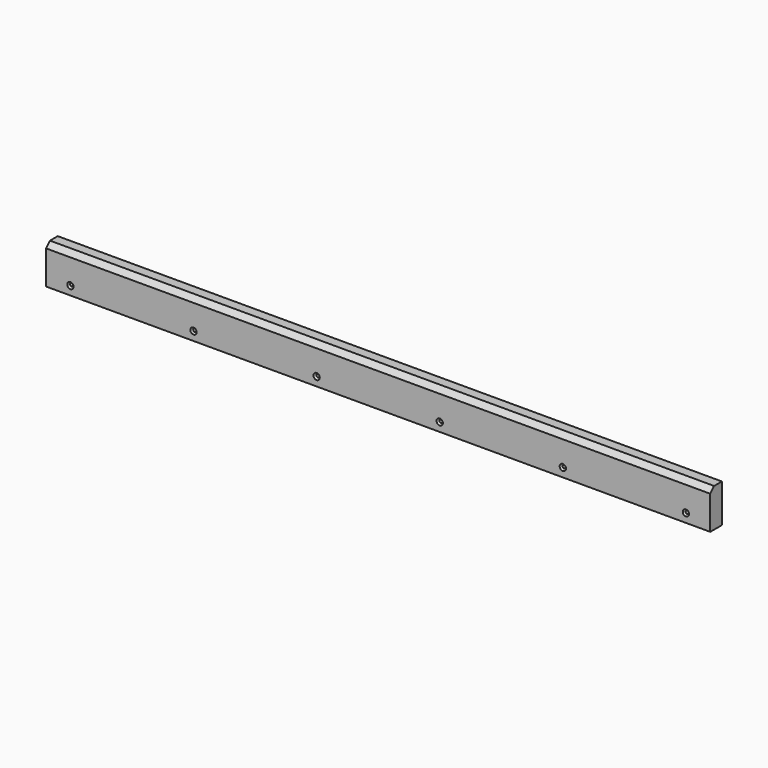
from build123d import *

# Parameters (mm, degrees)
F0_W           = 136.5
F0_H           = 7.9
F1_DEPTH       = 3
F2_D           = 0.65
F2_CSINK_D     = 1.3
F2_CSINK_ANGLE = 90
F3_SIZE        = 1


with BuildPart() as f1:
    # F0 (on Front) → F1 (new body)
    with BuildSketch(Plane.XZ):
        with Locations((-5.126582, 11.492361)):
            Rectangle(F0_W, F0_H)
    extrude(amount=-F1_DEPTH)

    # F2 (through all)
    with Locations(Plane.XZ):
        with Locations((58.123418, 9.342361), (32.823418, 9.342361), (7.523418, 9.342361), (-17.776582, 9.342361), (-43.076582, 9.342361), (-68.376582, 9.342361)):
            CounterSinkHole(F2_D / 2, F2_CSINK_D / 2, counter_sink_angle=F2_CSINK_ANGLE)

    # F3
    f3_edges = [f1.edges().sort_by_distance(p)[0] for p in [
        (-5.126582, 0, 15.442361),
    ]]
    chamfer(f3_edges, length=F3_SIZE)


solid = f1.part
